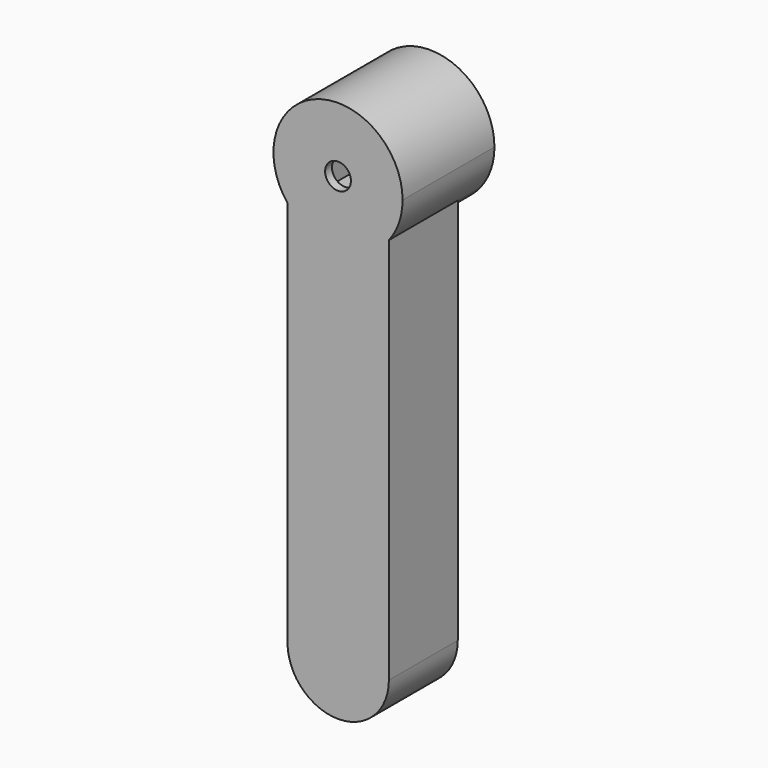
from build123d import *

# Parameters (mm, degrees)
F0_W     = 7.5
F0_H     = 7.5
F1_DEPTH = 16.9418
F2_DEPTH = 12.7
F0_R     = 1.905
F3_DEPTH = 1.27


with BuildPart() as f1:
    # F0 (on Front) → F1 (new body)
    with BuildSketch(Plane.XZ):
        with BuildLine():
            ThreePointArc((7.504635, -5.86567), (9.005756, -3.101933), (9.525, 0))
            ThreePointArc((9.525, 0), (-3.140707, 8.992307), (-7.45381, -5.930121))
            ThreePointArc((-7.45381, -5.930121), (0.04104, -9.524912), (7.504635, -5.86567))
        make_face()
        Rectangle(F0_W, F0_H, mode=Mode.SUBTRACT)
    extrude(amount=-F1_DEPTH)

    # F0 (on Front) → F2 (join)
    with BuildSketch(Plane.XZ):
        with BuildLine():
            ThreePointArc((7.504635, -5.86567), (0.04104, -9.524912), (-7.45381, -5.930121))
            Line((-7.45381, -5.930121), (-7.45381, -63.01567))
            ThreePointArc((-7.45381, -63.01567), (0.025412, -70.494892), (7.504635, -63.01567))
            Line((7.504635, -63.01567), (7.504635, -5.86567))
        make_face()
    extrude(amount=-F2_DEPTH)

    # F0 (on Front) → F3 (join)
    with BuildSketch(Plane.XZ):
        Rectangle(F0_W, F0_H)
        Circle(F0_R, mode=Mode.SUBTRACT)
    extrude(amount=-F3_DEPTH)


solid = f1.part
